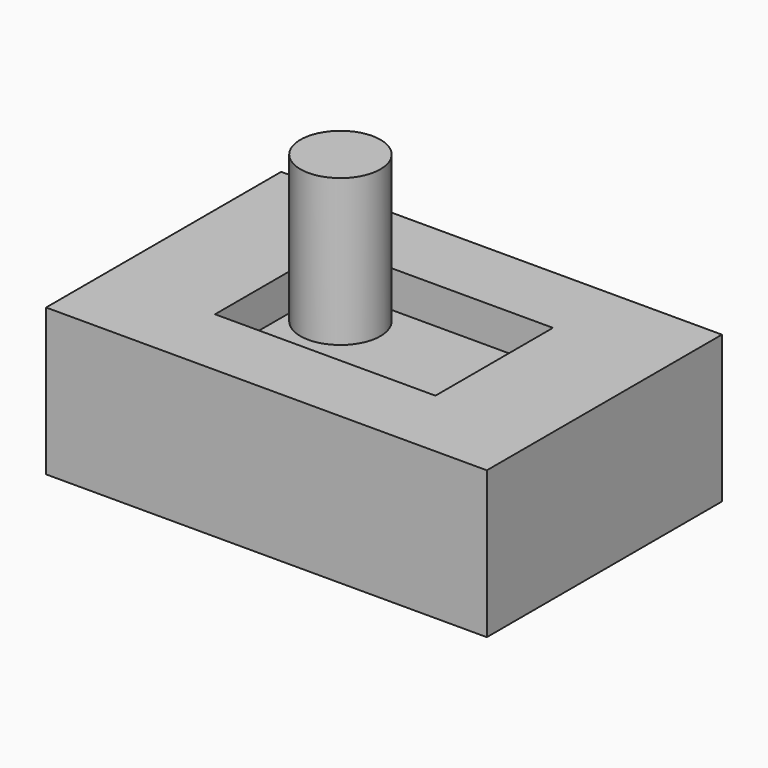
from build123d import *

# Parameters (mm, degrees)
F0_W     = 76.2
F0_H     = 50.8
F1_DEPTH = 25.4
F2_W     = 38.1
F2_H     = 25.4
F3_DEPTH = 6.35
F4_R     = 6.919484
F5_DEPTH = 25.4


with BuildPart() as f1:
    # F0 (on Top) → F1 (new body)
    with BuildSketch(Plane.XY):
        Rectangle(F0_W, F0_H)
    extrude(amount=F1_DEPTH)

    # F2 (on face) → F3 (cut)
    with BuildSketch(Plane.XY.offset(25.4)):
        Rectangle(F2_W, F2_H)
    extrude(amount=-F3_DEPTH, mode=Mode.SUBTRACT)


with BuildPart() as f5:
    # F4 (on face) → F5 (new body)
    with BuildSketch(Plane.XY.offset(19.05)):
        with Locations((-12.159365, 5.783275)):
            Circle(F4_R)
    extrude(amount=F5_DEPTH)


solid = Compound([f1.part, f5.part])
